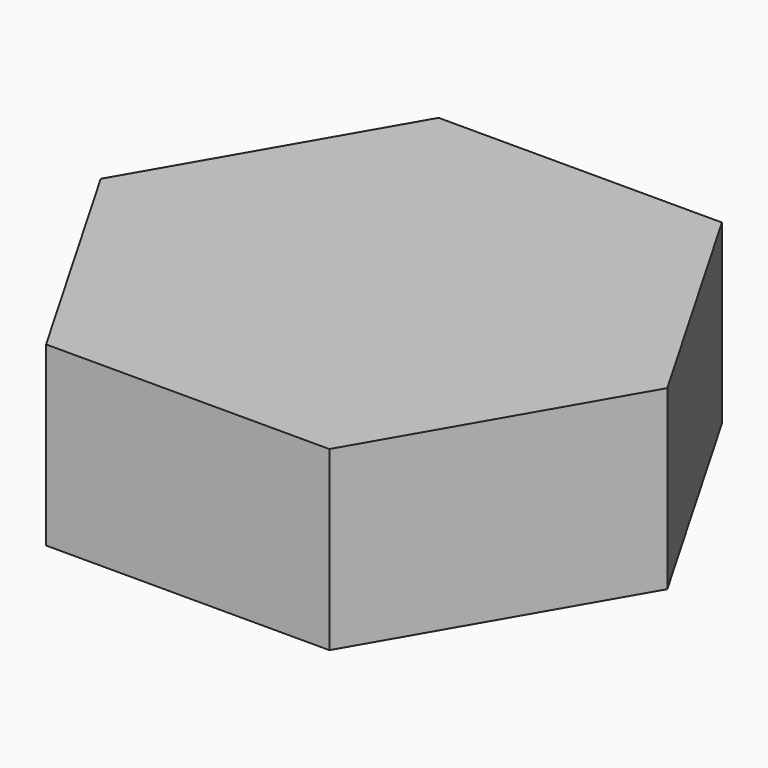
from build123d import *

# Parameters (mm, degrees)
F0_R     = 20
F1_DEPTH = 25


with BuildPart() as f1:
    # F0 (on Top) → F1 (new body)
    with BuildSketch(Plane.XY):
        Polygon((20, 34.641016), (-20, 34.641016), (-40, 0), (-20, -34.641016), (20, -34.641016), (40, 0), align=None)
        Circle(F0_R, mode=Mode.SUBTRACT)
        Circle(F0_R)
    extrude(amount=-F1_DEPTH)


solid = f1.part
